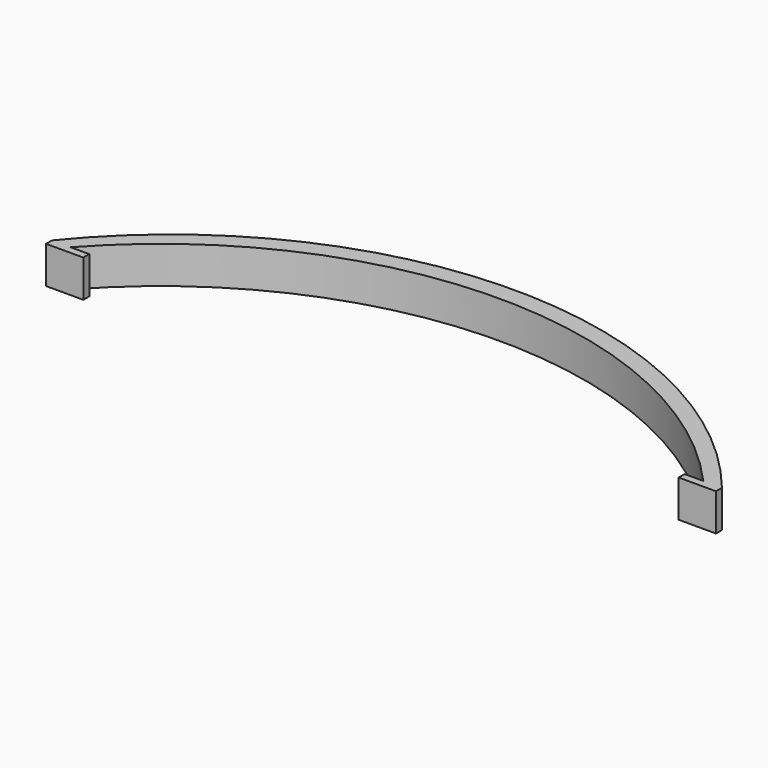
from build123d import *

# Parameters (mm, degrees)
F1_DEPTH = 10


with BuildPart() as f1:
    # F0 (on Top) → F1 (new body)
    with BuildSketch(Plane.XY):
        with BuildLine():
            ThreePointArc((81.566471, 0), (-8.433529, 43), (-98.433529, 0))
            Line((-98.433529, 0), (-93.433529, 0))
            ThreePointArc((-93.433529, 0), (-8.433529, 38), (76.566471, 0))
            Line((76.566471, 0), (81.566471, 0))
        make_face()
        Polygon((-93.433529, 0), (-98.433529, 0), (-98.433529, -2), (-88.433529, -2), (-88.433529, 0), align=None)
        Polygon((81.566471, -2), (81.566471, 0), (76.566471, 0), (71.566471, 0), (71.566471, -2), align=None)
    extrude(amount=F1_DEPTH)


solid = f1.part
